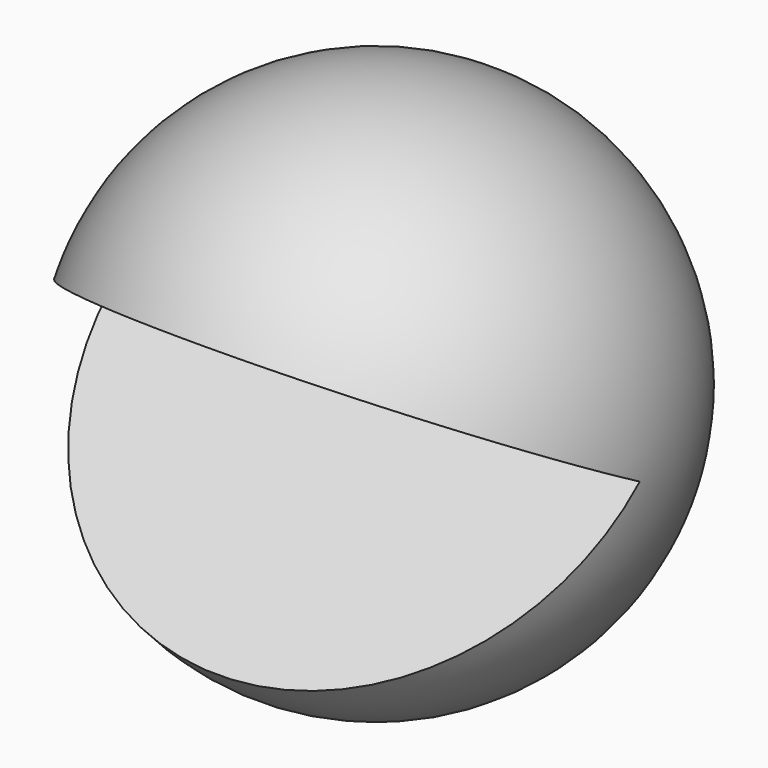
from build123d import *

# Parameters (mm, degrees)
F1_ANGLE_BACK = 60.3966480576
F1_ANGLE      = 288.5477791679


with BuildPart() as f1:
    # F0 (on Front) → F1 (revolve)
    with BuildSketch(Plane.XZ, mode=Mode.PRIVATE) as f1_sk:
        with BuildLine():
            ThreePointArc((63.5, 0), (0, 63.5), (-63.5, 0))
            Line((-63.5, 0), (63.5, 0))
        make_face()
    revolve(f1_sk.sketch.rotate(Axis((0, 0, 0), (-1, 0, 0)), -F1_ANGLE_BACK), axis=Axis((0, 0, 0), (-1, 0, 0)), revolution_arc=F1_ANGLE)


solid = f1.part
